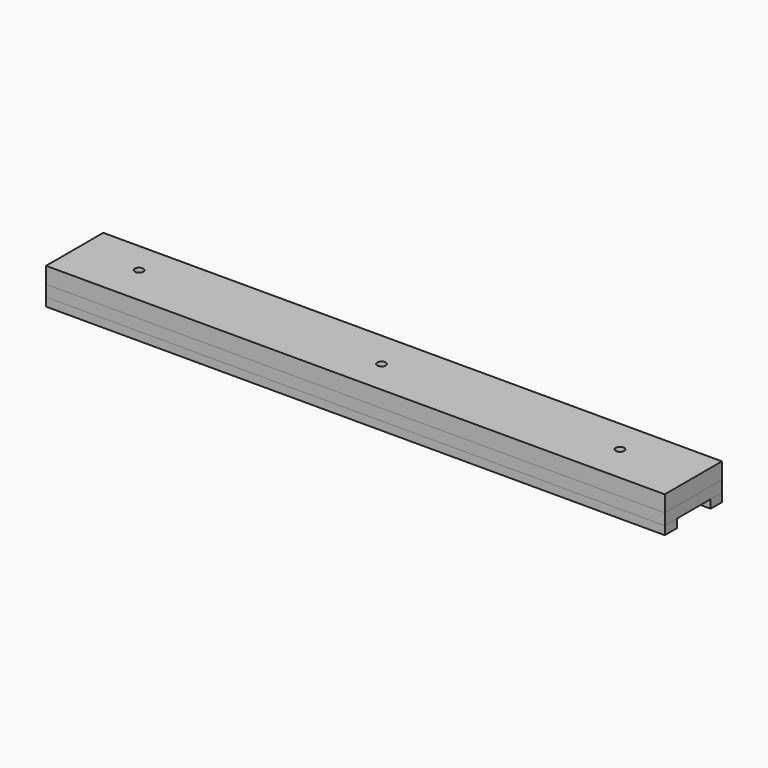
from build123d import *

# Parameters (mm, degrees)
F0_W     = 220
F0_H     = 5.380979
F0_H_2   = 5.030364
F1_DEPTH = 7
F0_H_3   = 15
F0_R     = 1.5
F2_DEPTH = 5.8
F3_DEPTH = 4
F4_R     = 3


with BuildPart() as f1:
    # F0 (on Top) → F1 (new body)
    with BuildSketch(Plane.XY):
        with Locations((0.377394, -14.543936)):
            Rectangle(F0_W, F0_H)
        with Locations((0.377394, 5.661735)):
            Rectangle(F0_W, F0_H_2)
    extrude(amount=-F1_DEPTH)


with BuildPart() as f2:
    # F0 (on Top) → F2 (new body)
    with BuildSketch(Plane.XY):
        with Locations((0.377394, 5.661735)):
            Rectangle(F0_W, F0_H_2)
        with Locations((0.377394, -4.353447)):
            Rectangle(F0_W, F0_H_3)
        with Locations((0, -5.157748)):
            Circle(F0_R, mode=Mode.SUBTRACT)
        with Locations((-87.807514, -3.144968)):
            Circle(F0_R, mode=Mode.SUBTRACT)
        with Locations((83.78195, -3.899761)):
            Circle(F0_R, mode=Mode.SUBTRACT)
        with Locations((0.377394, -14.543936)):
            Rectangle(F0_W, F0_H)
    extrude(amount=F2_DEPTH)


with BuildPart() as f3:
    # F0 (on Top) → F3 (new body)
    with BuildSketch(Plane.XY):
        with Locations((0.377394, 5.661735)):
            Rectangle(F0_W, F0_H_2)
        with Locations((0.377394, -4.353447)):
            Rectangle(F0_W, F0_H_3)
        with Locations((0, -5.157748)):
            Circle(F0_R, mode=Mode.SUBTRACT)
        with Locations((-87.807514, -3.144968)):
            Circle(F0_R, mode=Mode.SUBTRACT)
        with Locations((83.78195, -3.899761)):
            Circle(F0_R, mode=Mode.SUBTRACT)
        with Locations((0.377394, -14.543936)):
            Rectangle(F0_W, F0_H)
    extrude(amount=-F3_DEPTH)

    # F4
    f4_edges = [f3.edges().sort_by_distance(p)[0] for p in [
        (-89.307514, -3.144968, -4),
        (82.28195, -3.899761, -4),
        (-1.5, -5.157748, -4),
    ]]
    fillet(f4_edges, radius=F4_R)


solid = Compound([f1.part, f2.part, f3.part])
